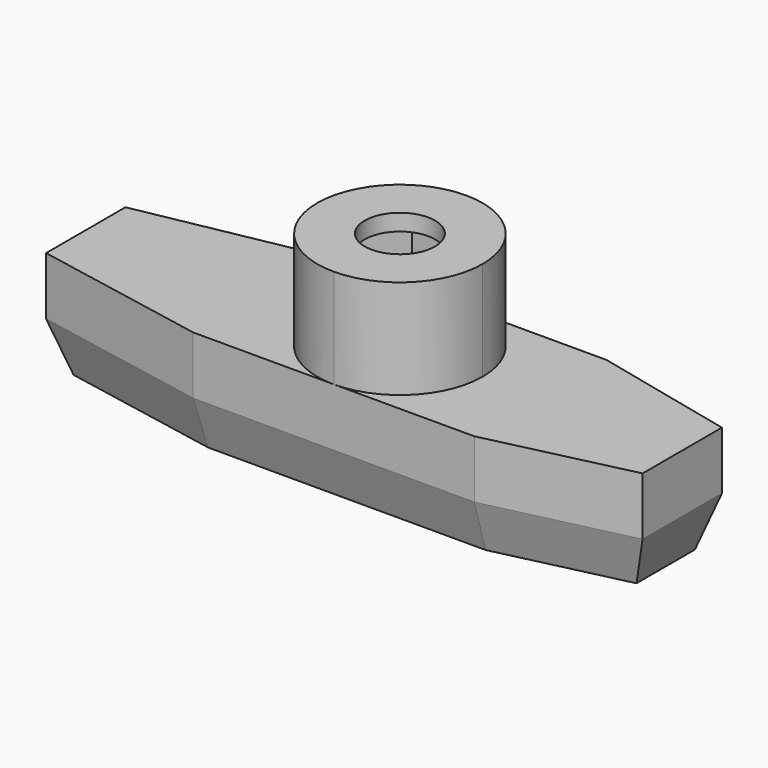
from build123d import *

# Parameters (mm, degrees)
F1_DEPTH  = 13
F3_DEPTH  = 12
F5_DEPTH  = 8.8
F6_R      = 4.25
F7_DEPTH  = 13
F9_R      = 10
F9_R_2    = 4.25
F10_DEPTH = 2
F11_SIZE2 = 6
F11_SIZE  = 2


with BuildPart() as f1:
    # F0 (on Top) → F1 (new body)
    with BuildSketch(Plane.XY):
        Polygon((-17, -10), (17, -10), (34.1558913715, -6), (34.1558913715, 6), (17, 10), (-17, 10), (-38.0029598341, 6), (-38.0029598341, -6), align=None)
    extrude(amount=F1_DEPTH)

    # F2 (on face) → F3 (join)
    with BuildSketch(Plane.XY.offset(13)):
        with BuildLine():
            ThreePointArc((0, -10), (7.0710678119, -7.0710678119), (10, 0))
            ThreePointArc((10, 0), (7.0710677987, 7.0710678251), (-3.73e-08, 10))
            ThreePointArc((-3.73e-08, 10), (-10, -1.87e-08), (0, -10))
        make_face()
    extrude(amount=F3_DEPTH)

    # F4 (on face) → F5 (cut)
    with BuildSketch(Plane.XY.offset(25)):
        Polygon((-3.8105117767, -6.6), (3.8105117767, -6.6), (7.6210235533, 0), (3.8105117767, 6.6), (-3.8105117767, 6.6), (-7.6210235533, 0), align=None)
    extrude(amount=-F5_DEPTH, mode=Mode.SUBTRACT)

    # F6 (on face) → F7 (cut)
    with BuildSketch(Plane.XY.offset(16.2)):
        Circle(F6_R)
    extrude(amount=-F7_DEPTH, mode=Mode.SUBTRACT)

    # F9 (on offset) → F10 (join)
    with BuildSketch(Plane.XY.offset(23)):
        Circle(F9_R)
        Circle(F9_R_2, mode=Mode.SUBTRACT)
    extrude(amount=F10_DEPTH)

    # F11
    f11_edges = [f1.edges().sort_by_distance(p)[0] for p in [
        (0, -10, 0),
        (-27.50148, -8, 0),
        (-38.00296, 0, 0),
        (25.577946, -8, 0),
        (34.155891, 0, 0),
        (25.577946, 8, 0),
        (0, 10, 0),
        (-27.50148, 8, 0),
    ]]
    f11_side = f1.faces().sort_by_distance((-1.644994, 0, 0))[0]
    chamfer(f11_edges, length=F11_SIZE, length2=F11_SIZE2, reference=f11_side)


solid = f1.part
